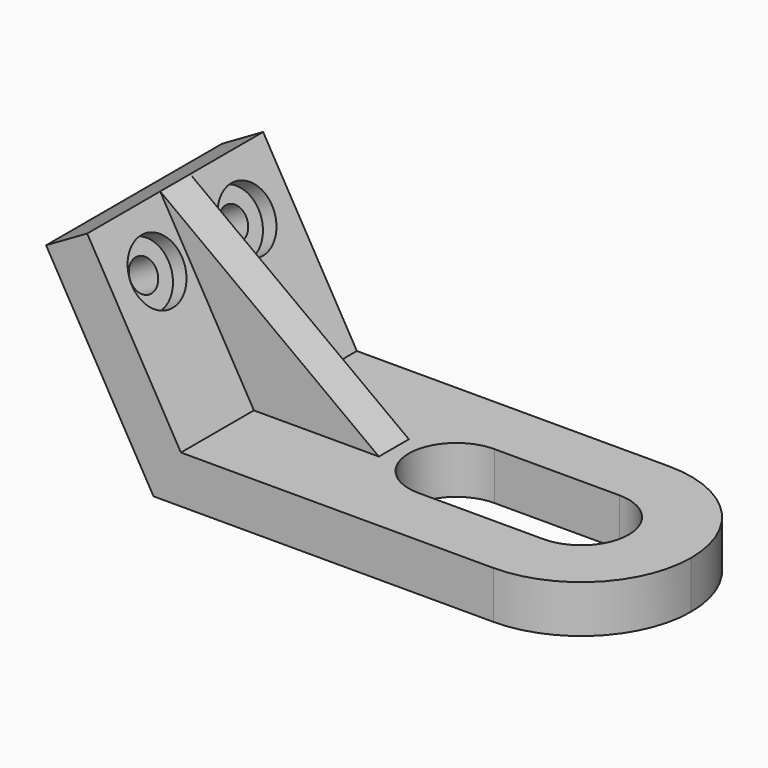
from build123d import *

# Parameters (mm, degrees)
F1_DEPTH = 22.352
F2_DEPTH = 3.81
F4_DEPTH = 9.652
F5_R     = 6.35
F5_R_2   = 3.175
F6_DEPTH = 3.175
F7_DEPTH = 3.175
F8_DEPTH = 25.4


with BuildPart() as f1:
    # F0 (on Front) → F1 (new body, symmetric)
    with BuildSketch(Plane.XZ):
        Polygon((-13.4774152018, 42.6475678842), (-21.8362923991, 37.8215678842), (0, 0), (91.4245847982, 0), (91.4245847982, 9.652), (30.9725847982, 9.652), (5.5725847982, 9.652), align=None)
    extrude(amount=F1_DEPTH, both=True)

    # F0 (on Front) → F2 (join, symmetric)
    with BuildSketch(Plane.XZ):
        Polygon((30.9725847982, 9.652), (-13.4774152018, 42.6475678842), (5.5725847982, 9.652), align=None)
    extrude(amount=F2_DEPTH, both=True)

    # F3 (on face) → F4 (cut)
    with BuildSketch(Plane.XY.offset(9.652)):
        with BuildLine():
            Line((69.0725847982, 9.652), (43.6725847982, 9.652))
            ThreePointArc((43.6725847982, 9.652), (34.0205847982, 0), (43.6725847982, -9.652))
            Line((43.6725847982, -9.652), (69.0725847982, -9.652))
            Line((69.0725847982, -9.652), (69.0725847982, 9.652))
        make_face()
        with BuildLine():
            ThreePointArc((69.0725847982, -9.652), (78.7245847982, 0), (69.0725847982, 9.652))
            Line((69.0725847982, 9.652), (69.0725847982, -9.652))
        make_face()
        with BuildLine():
            Line((91.4245847982, 22.352), (69.0725847982, 22.352))
            ThreePointArc((69.0725847982, 22.352), (84.8778355572, 15.8052507872), (91.4245847982, 3.99e-08))
            Line((91.4245847982, 3.99e-08), (91.4245847982, 22.352))
        make_face()
        with BuildLine():
            ThreePointArc((91.4245847982, 3.99e-08), (84.8778355854, -15.805250759), (69.0725847982, -22.352))
            Line((69.0725847982, -22.352), (91.4245847982, -22.352))
            Line((91.4245847982, -22.352), (91.4245847982, 3.99e-08))
        make_face()
    extrude(amount=-F4_DEPTH, mode=Mode.SUBTRACT)

    # F5 (on face) → F6 (cut)
    with BuildSketch(Plane(origin=(8.3588771973, 0, 4.826), x_dir=(0, 1, 0), z_dir=(0.8660254038, 0, 0.5))):
        with Locations((-11.43, 32.7505847982)):
            Circle(F5_R)
        with Locations((-11.43, 32.7505847982)):
            Circle(F5_R_2, mode=Mode.SUBTRACT)
    extrude(amount=-F6_DEPTH, mode=Mode.SUBTRACT)

    # F5 (on face) → F7 (cut)
    with BuildSketch(Plane(origin=(8.3588771973, 0, 4.826), x_dir=(0, 1, 0), z_dir=(0.8660254038, 0, 0.5))):
        with Locations((11.43, 32.7505847982)):
            Circle(F5_R)
        with Locations((11.43, 32.7505847982)):
            Circle(F5_R_2, mode=Mode.SUBTRACT)
        with Locations((-11.43, 32.7505847982)):
            Circle(F5_R)
        with Locations((-11.43, 32.7505847982)):
            Circle(F5_R_2, mode=Mode.SUBTRACT)
    extrude(amount=-F7_DEPTH, mode=Mode.SUBTRACT)

    # F8 (cut): faces of the model
    f8_faces = [f1.faces().sort_by_distance(p)[0] for p in [
        (-8.0164152018, -11.43, 33.1888384241),
        (-8.0164152018, 11.43, 33.1888384241),
    ]]
    extrude(f8_faces, amount=-F8_DEPTH, mode=Mode.SUBTRACT)


solid = f1.part
